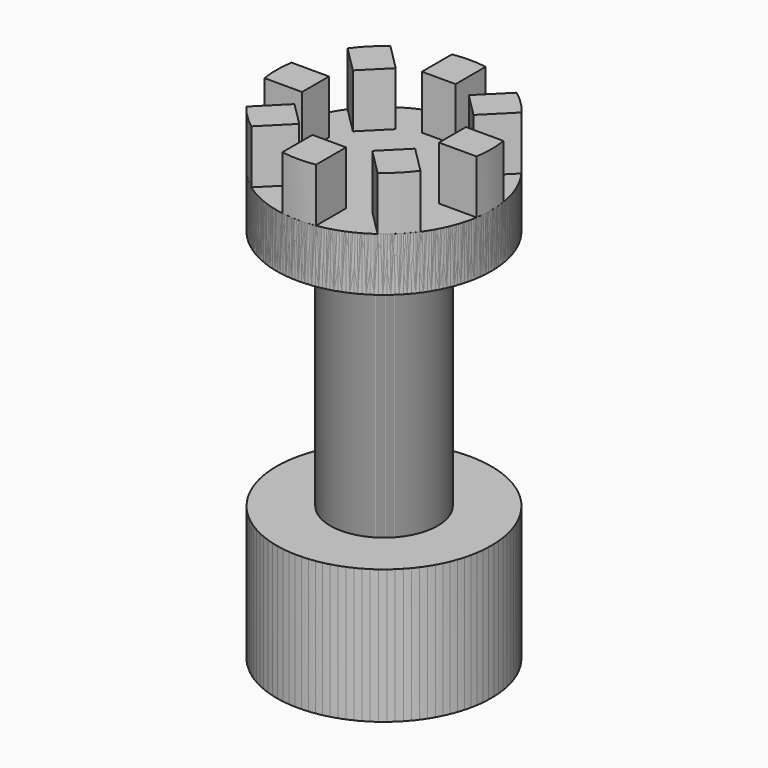
from build123d import *

# Parameters (mm, degrees)
F3_DEPTH = 10
F4_COUNT = 8


with BuildPart() as f1:
    # F0 (on Front) → F1 (revolve)
    with BuildSketch(Plane.XZ):
        Polygon((0, 40), (0, 0), (0, -40), (20, -40), (20, -15), (10, -15), (10, 30), (20, 30), (20, 40), align=None)
    revolve(axis=Axis((0, 0, 0.111343), (0, 0, -1)))

    # F2 (on face) → F3 (join)
    with BuildSketch(Plane.XY.offset(40)):
        with BuildLine():
            ThreePointArc((3.135687, 19.752657), (0, 20), (-3.135687, 19.752657))
            Line((-3.135687, 19.752657), (-3.135687, 12.752657))
            Line((-3.135687, 12.752657), (3.135687, 12.752657))
            Line((3.135687, 12.752657), (3.135687, 19.752657))
        make_face()
    extrude(amount=F3_DEPTH)


with BuildPart() as f4_1:
    # F4: instance of F1
    add(f1.part.rotate(Axis((0, 0, 30), (0, 0, 1)), 1 * 360 / F4_COUNT))


with BuildPart() as f4_2:
    # F4: instance of F1
    add(f1.part.rotate(Axis((0, 0, 30), (0, 0, 1)), 2 * 360 / F4_COUNT))


with BuildPart() as f4_3:
    # F4: instance of F1
    add(f1.part.rotate(Axis((0, 0, 30), (0, 0, 1)), 3 * 360 / F4_COUNT))


with BuildPart() as f4_4:
    # F4: instance of F1
    add(f1.part.rotate(Axis((0, 0, 30), (0, 0, 1)), 4 * 360 / F4_COUNT))


with BuildPart() as f4_5:
    # F4: instance of F1
    add(f1.part.rotate(Axis((0, 0, 30), (0, 0, 1)), 5 * 360 / F4_COUNT))


with BuildPart() as f4_6:
    # F4: instance of F1
    add(f1.part.rotate(Axis((0, 0, 30), (0, 0, 1)), 6 * 360 / F4_COUNT))


with BuildPart() as f4_7:
    # F4: instance of F1
    add(f1.part.rotate(Axis((0, 0, 30), (0, 0, 1)), 7 * 360 / F4_COUNT))


solid = Compound([f1.part, f4_1.part, f4_2.part, f4_3.part, f4_4.part, f4_5.part, f4_6.part, f4_7.part])
